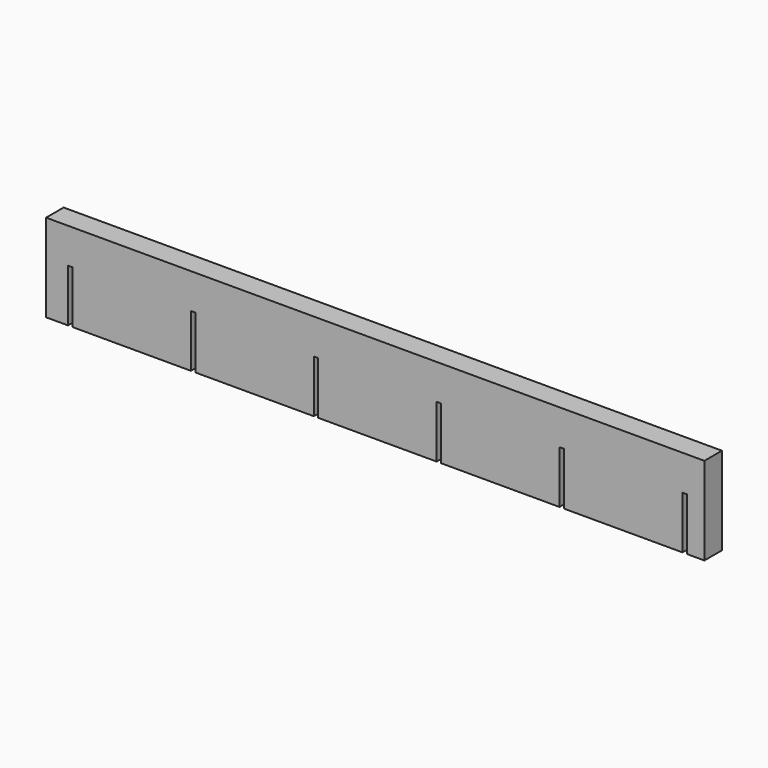
from build123d import *

# Parameters (mm, degrees)
BOX001_W      = 1
BOX001_H      = 5
BOX001_DEPTH  = 12
ARRAY_X_COUNT = 6
ARRAY_X_PITCH = 28
BOX_W         = 150
BOX_H         = 5
BOX_DEPTH     = 20


with BuildPart() as array:
    # Box001 → Box001 (new body)
    with BuildSketch(Plane.XY):
        with Locations((0.5, 2.5)):
            Rectangle(BOX001_W, BOX001_H)
    extrude(amount=BOX001_DEPTH)

    # Array X: Array ×6


with BuildPart() as array_1:
    add(array.part)
    with Locations(*[(i * ARRAY_X_PITCH, 0, 0) for i in range(1, ARRAY_X_COUNT)]):
        add(array.part)


with BuildPart() as cut:
    # Box → Box (new body)
    with BuildSketch(Plane(origin=(-5, 0, 0), x_dir=(1, 0, 0), z_dir=(0, 0, 1))):
        with Locations((75, 2.5)):
            Rectangle(BOX_W, BOX_H)
    extrude(amount=BOX_DEPTH)

    # Cut: cut Array
    add(array_1.part, mode=Mode.SUBTRACT)


solid = cut.part
